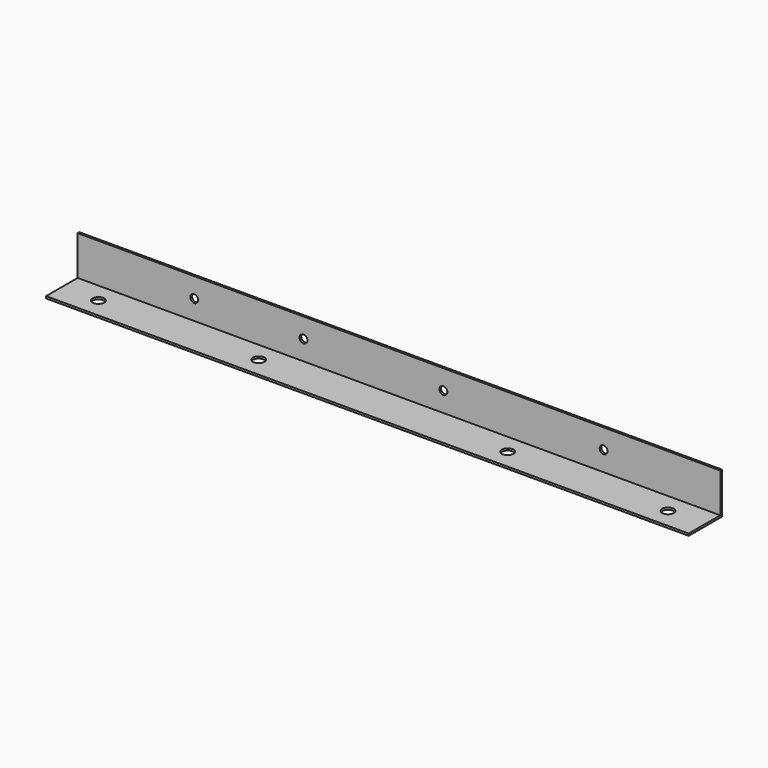
from build123d import *

# Parameters (mm, degrees)
F1_DEPTH = 1548.47
F2_R     = 14
F3_DEPTH = 5
F4_R     = 9.5
F5_DEPTH = 5


with BuildPart() as f1:
    # F0 (on Right) → F1 (new body)
    with BuildSketch(Plane.YZ):
        Polygon((0, 0), (0, 100), (-5, 100), (-5, 5), (-100, 5), (-100, 0), align=None)
    extrude(amount=F1_DEPTH)

    # F2 (on face) → F3 (cut, through all)
    with BuildSketch(Plane.XY.offset(5)):
        with Locations((474.22, -52.5)):
            Circle(F2_R)
        with Locations((1074.22, -52.5)):
            Circle(F2_R)
        with Locations((1460.47, -52.5)):
            Circle(F2_R)
        with Locations((88, -52.5)):
            Circle(F2_R)
    extrude(amount=-F3_DEPTH, mode=Mode.SUBTRACT)

    # F4 (on Front) → F5 (cut, through all)
    with BuildSketch(Plane.XZ):
        with Locations((1267.47, 52.5)):
            Circle(F4_R)
        with Locations((881.22, 52.5)):
            Circle(F4_R)
        with Locations((544.22, 52.5)):
            Circle(F4_R)
        with Locations((281, 52.5)):
            Circle(F4_R)
    extrude(amount=F5_DEPTH, mode=Mode.SUBTRACT)


solid = f1.part
